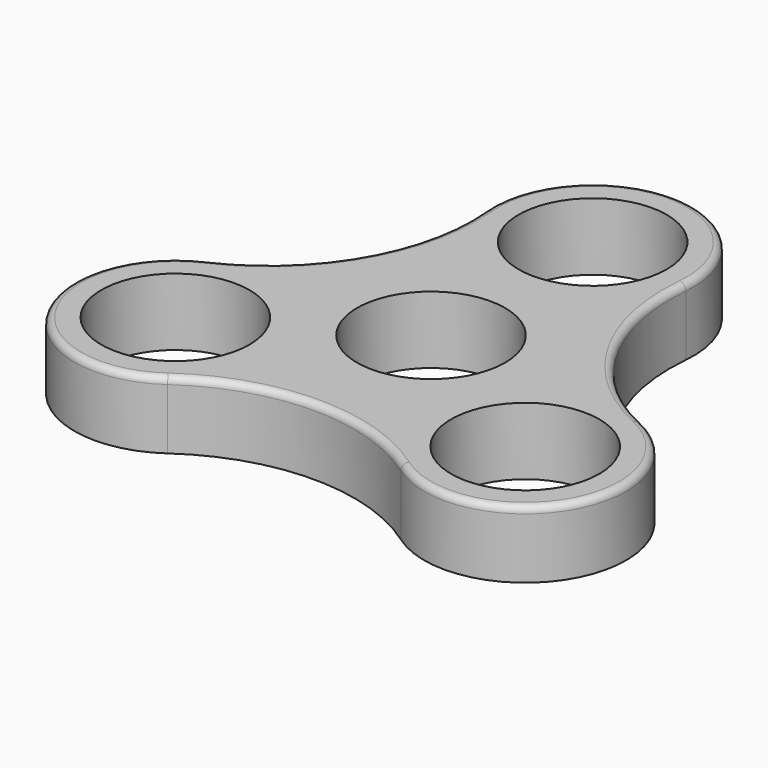
from build123d import *

# Parameters (mm, degrees)
F1_DEPTH = 10
F2_R     = 11
F3_DEPTH = 10.001
F4_R     = 1


with BuildPart() as f1:
    # F0 (on Top) → F1 (new body)
    with BuildSketch(Plane.XY):
        with BuildLine():
            ThreePointArc((32.257237, -1.376276), (18.829424, 10.871173), (14.936729, 28.623724))
            ThreePointArc((14.936729, 28.623724), (0, 45), (-14.936729, 28.623724))
            ThreePointArc((-14.936729, 28.623724), (-18.829424, 10.871173), (-32.257237, -1.376276))
            ThreePointArc((-32.257237, -1.376276), (-38.971143, -22.5), (-17.320508, -27.247449))
            ThreePointArc((-17.320508, -27.247449), (0, -21.742346), (17.320508, -27.247449))
            ThreePointArc((17.320508, -27.247449), (38.971143, -22.5), (32.257237, -1.376276))
        make_face()
    extrude(amount=F1_DEPTH)

    # F2 (on face) → F3 (cut, through all)
    with BuildSketch(Plane.XY.offset(10)):
        with Locations((-25.980762, -15)):
            Circle(F2_R)
        Circle(F2_R)
        with Locations((0, 30)):
            Circle(F2_R)
        with Locations((25.980762, -15)):
            Circle(F2_R)
    extrude(amount=-F3_DEPTH, mode=Mode.SUBTRACT)

    # F4
    f4_edges = [f1.edges().sort_by_distance(p)[0] for p in [
        (0, -21.742346, 10),
    ]]
    fillet(f4_edges, radius=F4_R)


solid = f1.part
